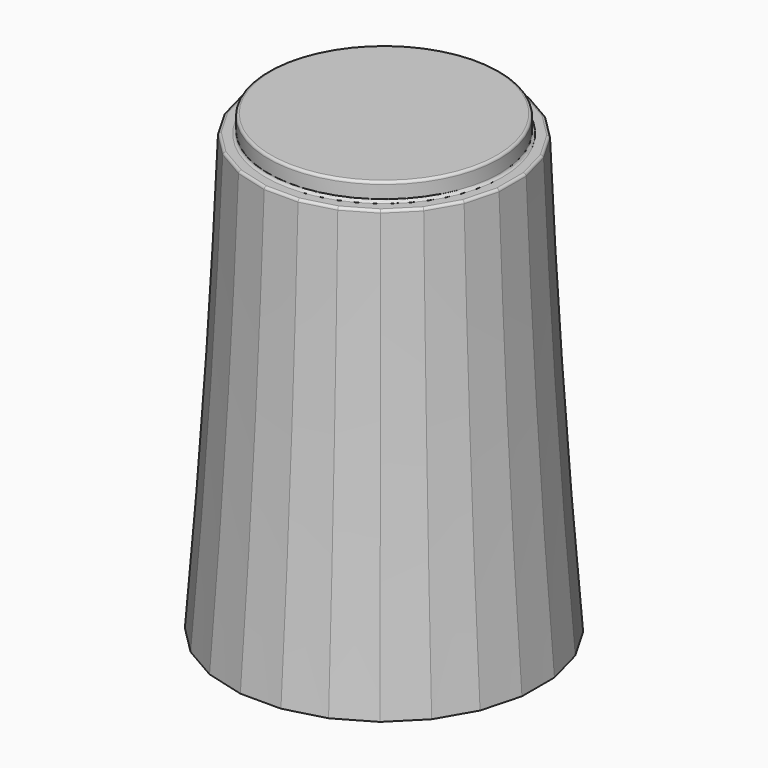
from build123d import *

# Parameters (mm, degrees)
SKETCH067_R     = 4.5
PAD016_DEPTH    = 0.7
SKETCH066_R     = 5
POCKET025_DEPTH = 1
SKETCH064_R     = 4.65
POCKET024_DEPTH = 1
POCKET026_DEPTH = 8
CHAMFER016_SIZE = 1.4
CHAMFER017_SIZE = 0.3
FILLET008_R     = 0.1


with BuildPart() as part:
    # Sketch073 → AdditiveLoft014 section 0
    with BuildSketch(Plane.XY):
        Polygon((-0.789915, 6), (-2.315914, 5.59111), (-3.684086, 4.801195), (-4.801195, 3.684086), (-5.59111, 2.315914), (-6, 0.789915), (-6, -0.789915), (-5.59111, -2.315914), (-4.801195, -3.684086), (-3.684086, -4.801195), (-2.315914, -5.59111), (-0.789915, -6), (0.789915, -6), (2.315914, -5.59111), (3.684086, -4.801195), (4.801195, -3.684086), (5.59111, -2.315914), (6, -0.789915), (6, 0.789915), (5.59111, 2.315914), (4.801195, 3.684086), (3.684086, 4.801195), (2.315914, 5.59111), (0.789915, 6), align=None)
    # Sketch068 → AdditiveLoft014 section 1
    with BuildSketch(Plane.XY.offset(7)):
        Polygon((-0.724089, 5.5), (-2.122921, 5.125184), (-3.377079, 4.401095), (-4.401095, 3.377079), (-5.125184, 2.122921), (-5.5, 0.724089), (-5.5, -0.724089), (-5.125184, -2.122921), (-4.401095, -3.377079), (-3.377079, -4.401095), (-2.122921, -5.125184), (-0.724089, -5.5), (0.724089, -5.5), (2.122921, -5.125184), (3.377079, -4.401095), (4.401095, -3.377079), (5.125184, -2.122921), (5.5, -0.724089), (5.5, 0.724089), (5.125184, 2.122921), (4.401095, 3.377079), (3.377079, 4.401095), (2.122921, 5.125184), (0.724089, 5.5), align=None)
    # Sketch074 → AdditiveLoft014 section 2
    with BuildSketch(Plane.XY.offset(17)):
        Polygon((-4.659258, 1.929928), (-5, 0.658262), (-5, -0.658262), (-4.659258, -1.929928), (-4.000996, -3.070072), (-3.070072, -4.000996), (-1.929928, -4.659258), (-0.658262, -5), (0.658262, -5), (1.929928, -4.659258), (3.070072, -4.000996), (4.000996, -3.070072), (4.659258, -1.929928), (5, -0.658262), (5, 0.658262), (4.659258, 1.929928), (4.000996, 3.070072), (3.070072, 4.000996), (1.929928, 4.659258), (0.658262, 5), (-0.658262, 5), (-1.929928, 4.659258), (-3.070072, 4.000996), (-4.000996, 3.070072), align=None)
    loft()

    # Sketch067 (on Face3 of AdditiveLoft014) → Pad016 (new body)
    with BuildSketch(Plane.XY.offset(17)):
        Circle(SKETCH067_R)
    extrude(amount=PAD016_DEPTH)

    # Sketch066 (on Face1 of Pad016) → Pocket025 (cut)
    with BuildSketch(Plane(origin=(0, 0, 0), x_dir=(1, 0, 0), z_dir=(0, 0, -1))):
        Circle(SKETCH066_R)
    extrude(amount=-POCKET025_DEPTH, mode=Mode.SUBTRACT)

    # Sketch064 (on Face28 of Pocket025) → Pocket024 (cut)
    with BuildSketch(Plane(origin=(0, 0, 1), x_dir=(1, 0, 0), z_dir=(0, 0, -1))):
        Circle(SKETCH064_R)
    extrude(amount=-POCKET024_DEPTH, mode=Mode.SUBTRACT)

    # Sketch065 (on Face32 of Pocket024) → Pocket026 (cut)
    with BuildSketch(Plane(origin=(0, 0, 2), x_dir=(1, 0, 0), z_dir=(0, 0, -1))):
        with BuildLine():
            ThreePointArc((-1.741757, 2.442598), (0, -3), (1.741757, 2.442598))
            Line((-1.741757, 2.442598), (1.741757, 2.442598))
        make_face()
    extrude(amount=-POCKET026_DEPTH, mode=Mode.SUBTRACT)

    # Chamfer016
    chamfer016_edges = [part.edges().sort_by_distance(p)[0] for p in [
        (0, 3, 2),
        (0, -2.442598, 2),
    ]]
    chamfer(chamfer016_edges, length=CHAMFER016_SIZE)

    # Chamfer017
    chamfer017_edges = [part.edges().sort_by_distance(p)[0] for p in [
        (-4.65, 0, 1),
    ]]
    chamfer(chamfer017_edges, length=CHAMFER017_SIZE)

    # Fillet008
    fillet008_edges = [part.edges().sort_by_distance(p)[0] for p in [
        (-4.5, 0, 17.7),
        (-4.829629, 1.294095, 17),
        (-4.330127, 2.5, 17),
        (-5, 0, 17),
        (-3.535534, 3.535534, 17),
        (-4.829629, -1.294095, 17),
        (-2.5, 4.330127, 17),
        (-4.330127, -2.5, 17),
        (-1.294095, 4.829629, 17),
        (-3.535534, -3.535534, 17),
        (0, 5, 17),
        (-2.5, -4.330127, 17),
        (1.294095, 4.829629, 17),
        (-1.294095, -4.829629, 17),
        (2.5, 4.330127, 17),
        (0, -5, 17),
        (3.535534, 3.535534, 17),
        (1.294095, -4.829629, 17),
        (4.330127, 2.5, 17),
        (2.5, -4.330127, 17),
        (4.829629, 1.294095, 17),
        (3.535534, -3.535534, 17),
        (5, 0, 17),
        (4.330127, -2.5, 17),
        (4.829629, -1.294095, 17),
        (-4.5, 0, 17),
    ]]
    fillet(fillet008_edges, radius=FILLET008_R)


solid = part.part
